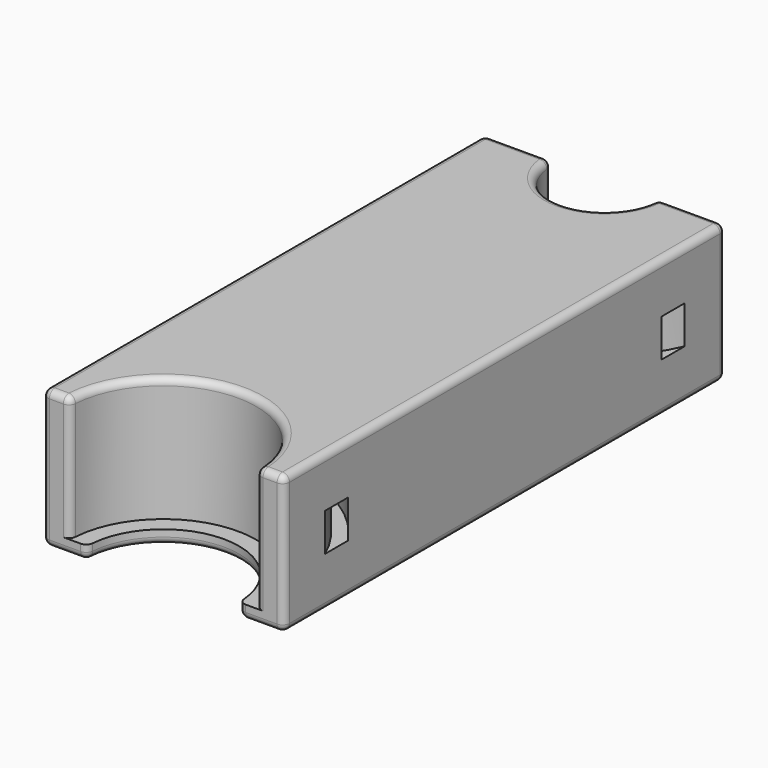
from build123d import *

# Parameters (mm, degrees)
PAD_DEPTH    = 20
SKETCH002_W  = 2
SKETCH002_H  = 5.5
SKETCH004_W  = 2
SKETCH004_H  = 5.5
PAD001_DEPTH = 2
FILLET_R     = 1


with BuildPart() as part:
    # Sketch → Pad (new body)
    with BuildSketch(Plane.XY):
        with BuildLine():
            Line((0, 0), (4, 0))
            ThreePointArc((31, 0), (17.5, 13.5), (4, 0))
            Line((31, 0), (35, 0))
            Line((35, 0), (35, 80))
            Line((35, 80), (25.25, 80))
            ThreePointArc((9.75, 80), (17.5, 72.25), (25.25, 80))
            Line((9.75, 80), (0, 80))
            Line((0, 80), (0, 0))
        make_face()
    extrude(amount=PAD_DEPTH)

    # SubtractivePipe: sweep along a path in Sketch001
    with BuildLine(Plane.XY.offset(10)) as subtractivepipe_path:
        CenterArc((17.5, 0), 20, 0, 360)
    # Sketch002 → SubtractivePipe (sweep, cut)
    with BuildSketch(Plane.XZ):
        with Locations((37.5, 10)):
            Rectangle(SKETCH002_W, SKETCH002_H)
    sweep(path=subtractivepipe_path.line, mode=Mode.SUBTRACT)

    # SubtractivePipe001: sweep along a path in Sketch003
    with BuildLine(Plane.XY.offset(10)) as subtractivepipe001_path:
        CenterArc((17.5, 80), 20, 0, 360)
    # Sketch004 → SubtractivePipe001 (sweep, cut)
    with BuildSketch(Plane.XZ.offset(-80)):
        with Locations((37.5, 10)):
            Rectangle(SKETCH004_W, SKETCH004_H)
    sweep(path=subtractivepipe001_path.line, mode=Mode.SUBTRACT)

    # Sketch005 → Pad001 (join)
    with BuildSketch(Plane.XY):
        with BuildLine():
            ThreePointArc((28.5, 0), (17.5, 11), (6.5, 0))
            Line((6.5, 0), (4, 0))
            ThreePointArc((31, 0), (17.5, 13.5), (4, 0))
            Line((31, 0), (28.5, 0))
        make_face()
    extrude(amount=PAD001_DEPTH)

    # Fillet
    fillet_edges = [part.edges().sort_by_distance(p)[0] for p in [
        (0, 40, 20),
        (35, 40, 20),
        (2, 0, 20),
        (17.5, 13.5, 20),
        (33, 0, 20),
        (4, 0, 11),
        (0, 0, 10),
        (31, 0, 11),
        (35, 0, 10),
        (3.25, 0, 0),
        (31.75, 0, 0),
        (35, 40, 0),
        (17.5, 11, 0),
        (0, 40, 0),
        (4.875, 80, 0),
        (17.5, 72.25, 0),
        (30.125, 80, 0),
        (35, 80, 10),
        (25.25, 80, 10),
        (9.75, 80, 10),
        (30.125, 80, 20),
        (4.875, 80, 20),
        (17.5, 72.25, 20),
        (0, 80, 10),
        (28.5, 0, 1),
        (6.5, 0, 1),
    ]]
    fillet(fillet_edges, radius=FILLET_R)


solid = part.part
